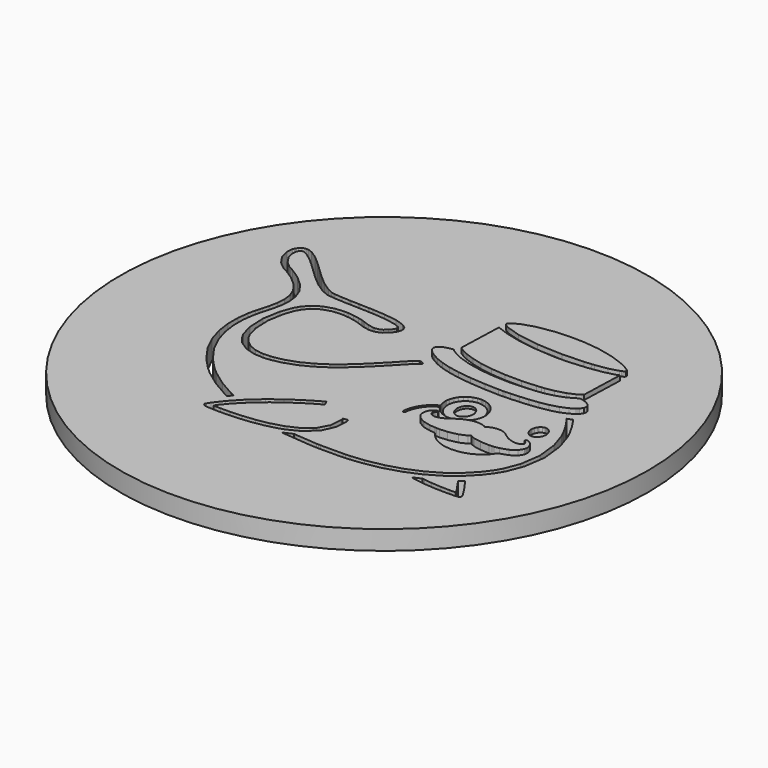
from build123d import *

# Parameters (mm, degrees)
F0_R     = 55
F1_DEPTH = 4
F2_DEPTH = 5
F3_DEPTH = 5
F4_DEPTH = 3.5
F5_DEPTH = 3
F6_DEPTH = 3.5


with BuildPart() as f1:
    # F0 (on Top) → F1 (new body)
    with BuildSketch(Plane.XY):
        Circle(F0_R)
        Polygon((-13.674875, -27.349544), (-13.862768, -27.342803), (-13.887655, -27.341684), (-14.113707, -27.332662), (-14.135068, -27.332662), (-14.364646, -27.322542), (-15.049854, -27.2843), (-15.565212, -27.220155), (-15.818432, -27.108767), (-15.922955, -26.970377), (-15.946597, -26.919733), (-16.06937, -26.658715), (-15.917355, -26.413418), (-15.489723, -25.72147), (-13.995704, -23.777213), (-11.741818, -21.377243), (-9.330732, -19.245093), (-6.936444, -17.413323), (-4.73565, -15.914742), (-2.900479, -14.780541), (-1.609077, -14.043486), (-1.13976, -13.79151), (-1.033785, -13.737589), (-0.547876, -14.684935), (-0.572555, -14.697171), (-0.990026, -14.921149), (-2.133145, -15.572553), (-3.812983, -16.603268), (-5.866533, -17.980528), (-8.131411, -19.668143), (-10.441291, -21.632682), (-12.632961, -23.840196), (-14.110389, -25.621322), (-14.543621, -26.255886), (-14.176753, -26.278408), (-13.074074, -26.30989), (-11.071334, -26.30203), (-8.696126, -26.182761), (-6.109591, -25.909342), (-3.473075, -25.431189), (-0.945023, -24.705437), (1.311974, -23.682665), (2.738592, -22.716198), (3.139264, -22.31901), (3.512976, -21.946584), (4.659207, -19.813314), (4.851662, -17.282877), (4.74942, -16.712354), (5.796726, -16.523424), (5.931943, -17.272715), (5.793616, -19.62202), (4.598442, -22.247005), (2.236922, -24.364513), (-0.357702, -25.651705), (-1.265644, -25.941985), (-1.875363, -26.135519), (-3.745582, -26.58445), (-6.244393, -27.002999), (-8.61172, -27.242656), (-10.174591, -27.333782), (-10.695341, -27.349544), (-11.025294, -27.358565), (-12.491316, -27.370904), align=None, mode=Mode.SUBTRACT)
        Polygon((34.193244, 6.335228), (34.279932, 6.367581), (34.519672, 6.054841), (35.644749, 4.393253), (36.658666, 2.608684), (36.84407, 2.233935), (37.384107, 1.142663), (38.526189, -2.373383), (39.040302, -6.956022), (38.386825, -11.403859), (37.145611, -14.632051), (36.566378, -15.608638), (36.179393, -16.259005), (34.807733, -18.087332), (32.643024, -20.311728), (30.106883, -22.263886), (27.231872, -23.927963), (24.052416, -25.286039), (20.600453, -26.322292), (16.911031, -27.019881), (13.992676, -27.322542), (13.018163, -27.361925), (12.542001, -27.379926), (7.807554, -27.390046), (7.341762, -27.373165), (6.716075, -27.349544), (0.651445, -26.803845), (0.066613, -26.719459), (0.238744, -26.655335), (1.823806, -25.967846), (1.965867, -25.896961), (2.405735, -25.947605), (6.917448, -26.291889), (7.379714, -26.30989), (7.83887, -26.325651), (12.506123, -26.316671), (12.975233, -26.29867), (13.917187, -26.261527), (16.735582, -25.970127), (20.295386, -25.302879), (23.623746, -24.311629), (26.68748, -23.014338), (29.454235, -21.423387), (31.892489, -19.557875), (33.968229, -17.433647), (35.28265, -15.687446), (35.652837, -15.065076), (36.197229, -14.145935), (37.361709, -11.108125), (37.971843, -6.914544), (37.482201, -2.590517), (36.400883, 0.729547), (35.890088, 1.7613), (35.697633, 2.149736), (34.651363, 3.9847), (33.492482, 5.676981), (33.244862, 5.993247), (33.330305, 6.023525), align=None, mode=Mode.SUBTRACT)
        Polygon((32.398721, -10.416073), (32.090544, -10.591523), (31.32881, -11.623275), (30.267609, -12.598825), (28.859033, -13.41448), (27.518067, -13.878198), (27.058911, -13.965923), (26.615517, -14.05033), (25.254018, -14.142617), (23.674349, -13.982721), (22.316376, -13.547415), (21.178856, -12.894767), (20.257434, -12.086993), (19.586536, -11.284611), (18.497545, -11.183406), (16.940273, -10.823382), (15.629585, -10.086534), (14.979218, -9.178385), (14.914098, -8.846565), (14.87345, -8.641667), (14.901655, -7.998143), (15.146787, -7.349021), (15.509092, -6.887584), (15.758787, -6.669205), (15.850245, -6.607196), (15.853356, -6.595997), (16.015532, -6.50848), (16.027768, -6.500392), (16.285343, -6.418266), (16.313548, -6.419511), (16.405006, -6.421792), (16.589166, -6.564682), (16.593936, -6.703217), (16.592692, -6.741169), (16.382193, -7.018031), (16.347352, -7.046235), (16.24511, -7.123798), (16.043737, -7.494192), (16.069246, -7.749279), (16.079823, -7.772921), (16.107612, -7.82933), (16.438603, -8.114073), (17.023643, -8.29056), (17.180013, -8.294085), (17.274581, -8.295122), (17.561398, -8.268162), (18.044196, -8.154721), (18.622599, -7.917055), (19.13215, -7.62775), (19.293083, -7.517834), (19.424774, -7.426376), (19.701429, -7.234128), (20.543214, -6.672731), (21.577247, -6.092046), (22.645915, -5.718749), (23.561737, -5.585813), (23.868049, -5.585813), (24.054697, -5.585813), (24.617132, -5.635172), (25.19678, -5.764789), (25.622961, -5.943557), (25.850257, -6.084165), (25.91911, -6.140367), (25.982985, -6.06633), (26.209452, -5.872838), (26.630241, -5.626254), (27.202838, -5.437324), (27.763198, -5.351673), (27.950884, -5.345037), (28.170507, -5.335912), (28.83311, -5.395432), (29.493639, -5.593694), (30.005471, -5.888392), (30.332936, -6.140367), (30.439947, -6.2283), (30.507348, -6.283257), (31.227397, -6.779535), (31.315122, -6.820183), (31.503015, -6.907701), (32.379434, -7.219404), (33.160455, -7.361464), (33.302308, -7.364575), (33.461996, -7.366856), (34.115889, -7.218574), (34.524235, -6.875141), (34.561357, -6.78078), (34.565712, -6.766055), (34.581474, -6.688492), (34.571519, -6.520923), (34.472388, -6.311462), (34.294657, -6.133731), (34.226012, -6.089972), (34.188889, -6.06633), (33.952468, -5.809792), (33.949357, -5.772462), (33.935669, -5.645541), (34.031482, -5.544129), (34.039156, -5.535211), (34.219168, -5.460966), (34.247373, -5.462003), (34.272259, -5.462003), (34.513036, -5.526293), (34.525479, -5.531685), (34.622122, -5.577933), (34.713165, -5.62501), (34.982146, -5.80751), (35.408535, -6.229336), (35.740354, -6.869749), (35.839485, -7.53567), (35.818125, -7.752804), (35.782039, -8.092712), (35.195962, -9.065981), (33.922189, -9.920832), align=None, mode=Mode.SUBTRACT)
        Polygon((18.191648, -5.707135), (17.983431, -5.700499), (17.77397, -5.692825), (17.149527, -5.584776), (16.379083, -5.313514), (15.686823, -4.903924), (15.090585, -4.374049), (14.605506, -3.74048), (14.554132, -3.637525), (14.429019, -3.696722), (13.6256, -4.213116), (12.795221, -4.965725), (12.186539, -5.763544), (11.76575, -6.552239), (11.497806, -7.272288), (11.349524, -7.872052), (11.284197, -8.292841), (11.270716, -8.444649), (11.269472, -8.47949), (11.267398, -8.515575), (11.184236, -8.664272), (11.029732, -8.736235), (10.993854, -8.734991), (10.956732, -8.73271), (10.808243, -8.649547), (10.736279, -8.495458), (10.737523, -8.459373), (10.73856, -8.421006), (10.753078, -8.254474), (10.82193, -7.793452), (10.982655, -7.138523), (11.272998, -6.349829), (11.729872, -5.487927), (12.392475, -4.614826), (13.298136, -3.792327), (14.174555, -3.228648), (14.316581, -3.161462), (14.246725, -3.021468), (14.032909, -2.232774), (13.9709, -1.602524), (13.978988, -1.394722), (13.985625, -1.18526), (14.093674, -0.560817), (14.364729, 0.209627), (14.774319, 0.901886), (15.304401, 1.498125), (15.937762, 1.983204), (16.657811, 2.340947), (17.446713, 2.554556), (18.076756, 2.616565), (18.28601, 2.608684), (18.494019, 2.601841), (19.118463, 2.493792), (19.889322, 2.223981), (20.581373, 1.814391), (21.177612, 1.284309), (21.662484, 0.650948), (22.020434, -0.069101), (22.234251, -0.858003), (22.29626, -1.488046), (22.289208, -1.6973), (22.281535, -1.905309), (22.173486, -2.529753), (21.90326, -3.300612), (21.49367, -3.992456), (20.964003, -4.588902), (20.330227, -5.073774), (19.610178, -5.431517), (18.821484, -5.645541), align=None, mode=Mode.SUBTRACT)
        Polygon((36.758834, -25.409787), (36.974931, -25.775473), (36.998574, -25.815976), (36.989241, -26.242406), (36.964562, -26.281789), (36.934284, -26.326771), (36.81151, -26.44268), (36.551654, -26.533827), (36.066782, -26.579929), (35.445657, -26.603571), (35.238477, -26.609191), (35.067382, -26.613692), (33.940024, -26.624953), (32.510296, -26.601331), (32.189467, -26.58895), (32.028742, -26.58221), (30.259935, -26.468541), (30.070798, -26.45166), (29.775893, -26.423559), (26.723565, -25.961106), (26.422024, -25.892481), (26.554752, -25.835097), (27.95441, -25.201632), (28.100618, -25.133008), (28.631737, -25.218514), (30.239611, -25.397427), (32.289636, -25.530175), (34.083329, -25.565058), (35.113837, -25.553797), (35.456856, -25.540317), (35.278088, -25.254516), (33.336112, -22.442779), (33.135569, -22.17388), (33.213339, -22.114215), (33.967192, -21.507793), (34.039156, -21.445888), (34.296938, -21.787932), (35.570711, -23.576939), align=None, mode=Mode.SUBTRACT)
        Polygon((32.647379, -2.403869), (32.600095, -2.403869), (32.450568, -2.398269), (32.006967, -2.240655), (31.527694, -1.837909), (31.207281, -1.250587), (31.091351, -0.712832), (31.092596, -0.534064), (31.092596, -0.357163), (31.204792, 0.169394), (31.458012, 0.679982), (31.528939, 0.766877), (31.602146, 0.858957), (32.039941, 1.188703), (32.497853, 1.335119), (32.650904, 1.335119), (32.697981, 1.333874), (32.846678, 1.329312), (33.291109, 1.171697), (33.770382, 0.769158), (34.091002, 0.180593), (34.207969, -0.357163), (34.207969, -0.537175), (34.206725, -0.658704), (34.093284, -1.238352), (33.839027, -1.747695), (33.769345, -1.835627), (33.694893, -1.92667), (33.257098, -2.257661), (32.754183, -2.403869), align=None, mode=Mode.SUBTRACT)
        Polygon((2.864891, 6.614164), (2.959252, 6.57248), (2.704995, 6.358663), (1.963585, 5.690461), (1.125325, 4.866718), (0.273585, 3.974745), (-0.504117, 3.154321), (-0.765011, 2.883265), (-1.200524, 2.433027), (-2.512249, 1.089572), (-4.336221, -0.702463), (-6.255592, -2.430829), (-8.292343, -4.035385), (-10.466178, -5.45433), (-12.795138, -6.625446), (-15.299756, -7.48963), (-17.320331, -7.914981), (-17.999939, -7.985908), (-18.648025, -8.052064), (-20.621627, -7.95874), (-22.870806, -7.312936), (-24.711535, -6.06716), (-25.835553, -4.738429), (-26.110114, -4.241321), (-26.525282, -3.488505), (-27.222851, -0.927685), (-27.382622, 2.744731), (-26.757059, 6.316149), (-25.919939, 8.625822), (-25.514912, 9.322436), (-25.259473, 9.763342), (-24.23108, 10.937155), (-22.537741, 12.079237), (-20.464096, 12.734996), (-18.639107, 12.915008), (-18.033744, 12.89261), (-17.667083, 12.880167), (-16.568759, 12.763201), (-15.376074, 12.549177), (-14.563738, 12.346767), (-14.252242, 12.252198), (-14.234199, 12.246806), (-13.954019, 12.139587), (-13.731285, 12.05435), (-12.59812, 11.659277), (-11.4662, 11.419538), (-11.242429, 11.411864), (-11.032968, 11.405228), (-10.399606, 11.496271), (-9.651353, 11.816684), (-8.985432, 12.383889), (-8.516114, 12.986972), (-8.386912, 13.203069), (-8.327184, 13.305311), (-8.223491, 13.657662), (-8.261857, 13.83643), (-8.270775, 13.852399), (-8.415946, 14.119099), (-9.502863, 14.561249), (-11.741818, 14.983283), (-14.238554, 15.199173), (-15.740661, 15.271136), (-16.240257, 15.289179), (-16.41467, 15.295608), (-18.148429, 15.35098), (-18.319523, 15.355543), (-18.486055, 15.361142), (-20.10517, 15.410708), (-20.260462, 15.4161), (-20.698132, 15.433106), (-22.452215, 15.527674), (-23.760788, 15.651485), (-23.974563, 15.681763), (-24.455017, 15.750616), (-25.841194, 16.333167), (-27.797811, 17.623946), (-29.803973, 19.328256), (-31.317279, 20.745956), (-31.815735, 21.223154), (-32.193781, 21.585253), (-33.336921, 22.66346), (-34.788384, 23.936818), (-36.073294, 24.853885), (-36.837247, 25.212873), (-37.094926, 25.22179), (-37.150049, 25.224072), (-37.44147, 25.138628), (-37.73511, 24.803283), (-37.790254, 24.67968), (-37.907283, 24.423142), (-37.961287, 23.51831), (-37.58436, 22.091693), (-36.616732, 20.643714), (-35.456711, 19.651365), (-35.017879, 19.414944), (-34.262906, 19.008879), (-32.109395, 17.579773), (-30.061611, 15.719923), (-28.748558, 13.847837), (-28.046469, 11.975543), (-27.828194, 10.113412), (-27.969964, 8.273886), (-28.34689, 6.468993), (-28.705816, 5.14918), (-28.830704, 4.710348), (-28.952213, 4.286241), (-29.080502, 3.83621), (-29.378643, 2.460195), (-29.649802, 0.301085), (-29.655442, -2.134887), (-29.288636, -4.790275), (-28.440277, -7.608877), (-27.001216, -10.536358), (-24.862305, -13.514648), (-22.703133, -15.803375), (-21.915559, -16.48962), (-21.367579, -16.967855), (-18.339847, -19.168588), (-14.959848, -21.102724), (-14.234199, -21.449248), (-14.291438, -21.525795), (-14.81364, -22.261647), (-14.85968, -22.32913), (-15.591135, -21.975846), (-19.000376, -20.009067), (-22.059568, -17.776666), (-22.615367, -17.291794), (-23.441225, -16.571745), (-25.706164, -14.168333), (-27.948603, -11.038235), (-29.455148, -7.95874), (-30.342911, -4.990612), (-30.724338, -2.19337), (-30.714197, 0.374085), (-30.427276, 2.650162), (-30.112255, 4.102911), (-29.976084, 4.577828), (-29.853477, 5.005253), (-29.729708, 5.436204), (-29.376403, 6.734657), (-29.015238, 8.443529), (-28.883588, 10.13581), (-29.090602, 11.814818), (-29.747709, 13.485323), (-30.963974, 15.149607), (-32.851987, 16.813684), (-34.831127, 18.106329), (-35.521955, 18.477553), (-36.041771, 18.756696), (-37.417849, 19.930301), (-38.591371, 21.692472), (-39.040302, 23.507112), (-38.923294, 24.759524), (-38.759023, 25.119548), (-38.685877, 25.281311), (-38.376455, 25.726986), (-37.935384, 26.084937), (-37.481952, 26.253543), (-37.162451, 26.290665), (-37.056684, 26.28631), (-36.740501, 26.275111), (-35.803255, 25.911561), (-34.377695, 24.970852), (-32.797984, 23.613916), (-31.506292, 22.400078), (-31.079883, 21.991732), (-30.61743, 21.549375), (-29.213251, 20.231843), (-27.318518, 18.602607), (-25.491249, 17.354965), (-24.254743, 16.796678), (-23.824933, 16.735084), (-23.567254, 16.698998), (-22.061808, 16.568344), (-20.505718, 16.490781), (-20.222199, 16.480619), (-20.06697, 16.47502), (-18.454533, 16.425454), (-18.289245, 16.419855), (-18.117113, 16.415292), (-16.375267, 16.360335), (-16.200854, 16.353284), (-15.364875, 16.323212), (-12.85694, 16.166635), (-10.219594, 15.822579), (-8.357463, 15.245213), (-7.486643, 14.638605), (-7.334628, 14.360706), (-7.296676, 14.288742), (-7.211025, 14.054809), (-7.160423, 13.66658), (-7.231142, 13.199751), (-7.397674, 12.784561), (-7.473163, 12.657226), (-7.639695, 12.378497), (-8.250658, 11.607638), (-9.139521, 10.87639), (-10.147631, 10.457882), (-10.999371, 10.33739), (-11.280795, 10.347552), (-11.548325, 10.357507), (-12.860258, 10.627525), (-14.102508, 11.056402), (-14.334367, 11.145164), (-14.592979, 11.244088), (-14.661625, 11.244088), (-14.866523, 11.326213), (-15.611252, 11.510788), (-16.717456, 11.708843), (-17.733447, 11.816684), (-18.07211, 11.829128), (-18.607584, 11.849659), (-20.221058, 11.702207), (-22.029186, 11.150764), (-23.488488, 10.178739), (-24.373991, 9.168348), (-24.594506, 8.787999), (-24.971432, 8.139913), (-25.743287, 5.982877), (-26.312627, 2.658043), (-26.169737, -0.72963), (-25.552034, -3.047392), (-25.177347, -3.727), (-24.975953, -4.093869), (-24.187218, -5.094305), (-22.927049, -6.094327), (-21.403602, -6.724578), (-20.068006, -6.965354), (-19.620257, -6.981945), (-19.501009, -6.985471), (-18.240716, -6.939431), (-18.109233, -6.925951), (-17.463221, -6.85855), (-15.543851, -6.449997), (-13.151844, -5.615055), (-10.919527, -4.47878), (-8.827817, -3.10152), (-6.861163, -1.543004), (-5.000068, 0.136834), (-3.229188, 1.878266), (-1.954377, 3.186051), (-1.531307, 3.622394), (-1.290323, 3.872088), (-0.574836, 4.628223), (0.198096, 5.446159), (0.960867, 6.211211), (1.650638, 6.849342), (1.886852, 7.055277), (1.971259, 7.015666), align=None, mode=Mode.SUBTRACT)
        Polygon((34.301293, 10.098895), (34.333024, 9.9334), (34.355421, 9.809797), (34.267696, 9.231393), (33.824302, 8.618149), (33.670213, 8.47754), (33.399158, 8.232201), (32.452642, 7.642599), (30.931456, 6.999075), (29.190853, 6.522084), (27.317523, 6.182177), (25.39919, 5.952599), (23.522334, 5.803902), (21.772814, 5.709541), (20.620569, 5.658731), (20.236903, 5.640895), (20.235866, 5.640895), (19.285202, 5.649813), (16.436322, 5.745419), (13.208337, 5.97396), (10.494465, 6.312623), (8.239542, 6.748137), (6.38861, 7.26785), (4.886503, 7.858489), (3.675983, 8.506574), (2.934573, 9.010733), (2.703751, 9.198833), (2.540744, 9.331354), (2.026631, 9.981721), (1.915057, 10.608446), (1.954668, 10.728938), (2.007344, 10.898788), (2.416934, 11.327458), (3.203347, 11.717968), (4.095528, 11.946302), (4.677457, 12.037345), (4.871779, 12.056424), (5.165647, 11.785369), (6.192836, 11.126084), (7.997729, 10.312711), (10.230047, 9.638702), (12.827988, 9.12687), (15.734108, 8.800442), (18.891166, 8.684305), (22.238606, 8.800442), (24.853553, 9.046819), (25.718566, 9.170629), (26.25093, 9.246947), (27.829562, 9.616097), (29.46419, 10.204662), (30.713284, 10.840305), (31.428978, 11.277892), (31.665192, 11.427626), (31.774278, 11.411864), (32.433562, 11.271256), (33.295464, 10.983195), (33.979635, 10.548925), align=None, mode=Mode.SUBTRACT)
        Polygon((18.708043, 20.284726), (19.978291, 20.245323), (20.635294, 20.261084), (22.609, 20.342173), (25.723336, 20.582949), (28.886201, 21.058696), (30.998856, 21.588778), (31.665192, 21.859004), (31.363651, 12.853207), (31.116238, 12.659507), (30.295813, 12.176916), (28.766539, 11.518669), (26.775205, 10.957271), (24.932361, 10.63665), (24.314346, 10.574849), (23.334441, 10.477999), (20.384355, 10.319348), (16.920986, 10.341745), (13.917187, 10.589366), (11.361967, 11.007874), (9.245371, 11.545629), (7.55786, 12.147675), (6.290723, 12.762164), (5.632683, 13.172583), (5.434628, 13.333516), (5.751931, 22.762176), (6.301922, 22.516007), (8.014734, 21.9038), (10.99178, 21.150154), (14.904766, 20.574032), align=None, mode=Mode.SUBTRACT)
        Polygon((26.182284, 22.11409), (25.580446, 22.059133), (24.1053, 21.926405), (19.658499, 21.771072), (14.339013, 22.00065), (9.862141, 22.728579), (7.259637, 23.520592), (6.468454, 23.929145), (6.38861, 23.97083), (6.061145, 24.172203), (5.892332, 24.452383), (5.893576, 24.532227), (5.893576, 24.589466), (6.000381, 24.803283), (6.307729, 25.035142), (6.40769, 25.101298), (6.756515, 25.334402), (7.898598, 25.890407), (10.289567, 26.660022), (13.760817, 27.215613), (17.311704, 27.390026), (18.494019, 27.364102), (18.756364, 27.358503), (19.835401, 27.334861), (23.070022, 26.982924), (26.535465, 26.203148), (29.16493, 25.23216), (30.542397, 24.547989), (30.976459, 24.27797), (31.07559, 24.217206), (31.403054, 23.975185), (31.53122, 23.738971), (31.530183, 23.679243), (31.528939, 23.609561), (31.334409, 23.373139), (30.981021, 23.208888), (30.901384, 23.175292), (30.594036, 23.048163), (28.684621, 22.508126), align=None, mode=Mode.SUBTRACT)
    extrude(amount=F1_DEPTH)

    # F0 (on Top) → F2 (join)
    with BuildSketch(Plane.XY):
        Polygon((31.370495, -10.608529), (32.398721, -10.416073), (33.922189, -9.920832), (35.195962, -9.065981), (35.782039, -8.092712), (35.818125, -7.752804), (35.839485, -7.53567), (35.740354, -6.869749), (35.408535, -6.229336), (34.982146, -5.80751), (34.713165, -5.62501), (34.622122, -5.577933), (34.525479, -5.531685), (34.513036, -5.526293), (34.272259, -5.462003), (34.247373, -5.462003), (34.219168, -5.460966), (34.039156, -5.535211), (34.031482, -5.544129), (33.935669, -5.645541), (33.949357, -5.772462), (33.952468, -5.809792), (34.188889, -6.06633), (34.226012, -6.089972), (34.294657, -6.133731), (34.472388, -6.311462), (34.571519, -6.520923), (34.581474, -6.688492), (34.565712, -6.766055), (34.561357, -6.78078), (34.524235, -6.875141), (34.115889, -7.218574), (33.461996, -7.366856), (33.302308, -7.364575), (33.160455, -7.361464), (32.379434, -7.219404), (31.503015, -6.907701), (31.315122, -6.820183), (31.227397, -6.779535), (30.507348, -6.283257), (30.439947, -6.2283), (30.332936, -6.140367), (30.005471, -5.888392), (29.493639, -5.593694), (28.83311, -5.395432), (28.170507, -5.335912), (27.950884, -5.345037), (27.763198, -5.351673), (27.202838, -5.437324), (26.630241, -5.626254), (26.209452, -5.872838), (25.982985, -6.06633), (25.91911, -6.140367), (25.850257, -6.084165), (25.622961, -5.943557), (25.19678, -5.764789), (24.617132, -5.635172), (24.054697, -5.585813), (23.868049, -5.585813), (23.561737, -5.585813), (22.645915, -5.718749), (21.577247, -6.092046), (20.543214, -6.672731), (19.701429, -7.234128), (19.424774, -7.426376), (19.293083, -7.517834), (19.13215, -7.62775), (18.622599, -7.917055), (18.044196, -8.154721), (17.561398, -8.268162), (17.274581, -8.295122), (17.180013, -8.294085), (17.023643, -8.29056), (16.438603, -8.114073), (16.107612, -7.82933), (16.079823, -7.772921), (16.069246, -7.749279), (16.043737, -7.494192), (16.24511, -7.123798), (16.347352, -7.046235), (16.382193, -7.018031), (16.592692, -6.741169), (16.593936, -6.703217), (16.589166, -6.564682), (16.405006, -6.421792), (16.313548, -6.419511), (16.285343, -6.418266), (16.027768, -6.500392), (16.015532, -6.50848), (15.853356, -6.595997), (15.850245, -6.607196), (15.758787, -6.669205), (15.509092, -6.887584), (15.146787, -7.349021), (14.901655, -7.998143), (14.87345, -8.641667), (14.914098, -8.846565), (14.979218, -9.178385), (15.629585, -10.086534), (16.940273, -10.823382), (18.497545, -11.183406), (19.586536, -11.284611), (19.95133, -11.291455), (20.602734, -11.309498), (22.197128, -11.215966), (24.188669, -10.792896), (25.641211, -10.143773), (26.033795, -9.817553), (26.242012, -9.963761), (27.004783, -10.277746), (28.529287, -10.569125), (30.401581, -10.665767), (31.02478, -10.647725), align=None)
    extrude(amount=F2_DEPTH)

    # F0 (on Top) → F3 (join)
    with BuildSketch(Plane.XY):
        Polygon((20.635294, 20.261084), (19.978291, 20.245323), (18.708043, 20.284726), (14.904766, 20.574032), (10.99178, 21.150154), (8.014734, 21.9038), (6.301922, 22.516007), (5.751931, 22.762176), (5.434628, 13.333516), (5.632683, 13.172583), (6.290723, 12.762164), (7.55786, 12.147675), (9.245371, 11.545629), (11.361967, 11.007874), (13.917187, 10.589366), (16.920986, 10.341745), (20.384355, 10.319348), (23.334441, 10.477999), (24.314346, 10.574849), (24.932361, 10.63665), (26.775205, 10.957271), (28.766539, 11.518669), (30.295813, 12.176916), (31.116238, 12.659507), (31.363651, 12.853207), (31.665192, 21.859004), (30.998856, 21.588778), (28.886201, 21.058696), (25.723336, 20.582949), (22.609, 20.342173), align=None)
        Polygon((34.355421, 9.809797), (34.333024, 9.9334), (34.301293, 10.098895), (33.979635, 10.548925), (33.295464, 10.983195), (32.433562, 11.271256), (31.774278, 11.411864), (31.665192, 11.427626), (31.428978, 11.277892), (30.713284, 10.840305), (29.46419, 10.204662), (27.829562, 9.616097), (26.25093, 9.246947), (25.718566, 9.170629), (24.853553, 9.046819), (22.238606, 8.800442), (18.891166, 8.684305), (15.734108, 8.800442), (12.827988, 9.12687), (10.230047, 9.638702), (7.997729, 10.312711), (6.192836, 11.126084), (5.165647, 11.785369), (4.871779, 12.056424), (4.677457, 12.037345), (4.095528, 11.946302), (3.203347, 11.717968), (2.416934, 11.327458), (2.007344, 10.898788), (1.954668, 10.728938), (1.915057, 10.608446), (2.026631, 9.981721), (2.540744, 9.331354), (2.703751, 9.198833), (2.934573, 9.010733), (3.675983, 8.506574), (4.886503, 7.858489), (6.38861, 7.26785), (8.239542, 6.748137), (10.494465, 6.312623), (13.208337, 5.97396), (16.436322, 5.745419), (19.285202, 5.649813), (20.235866, 5.640895), (20.236903, 5.640895), (20.620569, 5.658731), (21.772814, 5.709541), (23.522334, 5.803902), (25.39919, 5.952599), (27.317523, 6.182177), (29.190853, 6.522084), (30.931456, 6.999075), (32.452642, 7.642599), (33.399158, 8.232201), (33.670213, 8.47754), (33.824302, 8.618149), (34.267696, 9.231393), align=None)
        Polygon((24.1053, 21.926405), (25.580446, 22.059133), (26.182284, 22.11409), (28.684621, 22.508126), (30.594036, 23.048163), (30.901384, 23.175292), (30.981021, 23.208888), (31.334409, 23.373139), (31.528939, 23.609561), (31.530183, 23.679243), (31.53122, 23.738971), (31.403054, 23.975185), (31.07559, 24.217206), (30.976459, 24.27797), (30.542397, 24.547989), (29.16493, 25.23216), (26.535465, 26.203148), (23.070022, 26.982924), (19.835401, 27.334861), (18.756364, 27.358503), (18.494019, 27.364102), (17.311704, 27.390026), (13.760817, 27.215613), (10.289567, 26.660022), (7.898598, 25.890407), (6.756515, 25.334402), (6.40769, 25.101298), (6.307729, 25.035142), (6.000381, 24.803283), (5.893576, 24.589466), (5.893576, 24.532227), (5.892332, 24.452383), (6.061145, 24.172203), (6.38861, 23.97083), (6.468454, 23.929145), (7.259637, 23.520592), (9.862141, 22.728579), (14.339013, 22.00065), (19.658499, 21.771072), align=None)
    extrude(amount=F3_DEPTH)

    # F0 (on Top) → F4 (join)
    with BuildSketch(Plane.XY):
        Polygon((31.32881, -11.623275), (32.090544, -10.591523), (32.398721, -10.416073), (31.370495, -10.608529), (31.02478, -10.647725), (30.401581, -10.665767), (28.529287, -10.569125), (27.004783, -10.277746), (26.242012, -9.963761), (26.033795, -9.817553), (25.641211, -10.143773), (24.188669, -10.792896), (22.197128, -11.215966), (20.602734, -11.309498), (19.95133, -11.291455), (19.586536, -11.284611), (20.257434, -12.086993), (21.178856, -12.894767), (22.316376, -13.547415), (23.674349, -13.982721), (25.254018, -14.142617), (26.615517, -14.05033), (27.058911, -13.965923), (27.518067, -13.878198), (28.859033, -13.41448), (30.267609, -12.598825), align=None)
    extrude(amount=F4_DEPTH)

    # F0 (on Top) → F5 (join)
    with BuildSketch(Plane.XY):
        Polygon((17.941539, -3.573948), (18.101435, -3.579755), (18.109316, -3.579755), (18.192685, -3.579755), (18.201603, -3.579755), (18.316288, -3.575193), (18.856325, -3.397462), (19.319006, -3.02375), (19.396569, -2.922752), (19.469569, -2.824865), (19.727352, -2.258698), (19.829594, -1.623055), (19.825446, -1.490327), (19.818395, -1.292065), (19.666587, -0.704744), (19.284165, -0.070346), (18.732929, 0.349406), (18.231882, 0.493333), (18.067838, 0.486489), (17.951909, 0.483379), (17.411872, 0.306477), (16.949398, -0.06682), (16.873079, -0.16927), (16.798627, -0.267364), (16.542089, -0.83208), (16.439847, -1.467722), (16.443995, -1.601694), (16.449802, -1.791869), (16.591655, -2.359903), (16.950435, -2.982272), (17.470355, -3.408661), align=None)
        Polygon((32.450568, -2.398269), (32.600095, -2.403869), (32.647379, -2.403869), (32.754183, -2.403869), (33.257098, -2.257661), (33.694893, -1.92667), (33.769345, -1.835627), (33.839027, -1.747695), (34.093284, -1.238352), (34.206725, -0.658704), (34.207969, -0.537175), (34.207969, -0.357163), (34.091002, 0.180593), (33.770382, 0.769158), (33.291109, 1.171697), (32.846678, 1.329312), (32.697981, 1.333874), (32.650904, 1.335119), (32.497853, 1.335119), (32.039941, 1.188703), (31.602146, 0.858957), (31.528939, 0.766877), (31.458012, 0.679982), (31.204792, 0.169394), (31.092596, -0.357163), (31.092596, -0.534064), (31.091351, -0.712832), (31.207281, -1.250587), (31.527694, -1.837909), (32.006967, -2.240655), align=None)
    extrude(amount=F5_DEPTH)

    # F0 (on Top) → F6 (join)
    with BuildSketch(Plane.XY):
        Polygon((18.447979, 2.070722), (18.266723, 2.076528), (18.084844, 2.083165), (17.53423, 2.030488), (16.847156, 1.843425), (16.219187, 1.531722), (15.666707, 1.107822), (15.20444, 0.587902), (14.847527, -0.015181), (14.611312, -0.686909), (14.517988, -1.2313), (14.512181, -1.413594), (14.505545, -1.59485), (14.558221, -2.145049), (14.745285, -2.832538), (15.056988, -3.460507), (15.480888, -4.012987), (16.000808, -4.475254), (16.603891, -4.831753), (17.275618, -5.068382), (17.820425, -5.161706), (18.002304, -5.168343), (18.18356, -5.173942), (18.733759, -5.121058), (19.421248, -4.93441), (20.047973, -4.622706), (20.600453, -4.199636), (21.062719, -3.678886), (21.419633, -3.075596), (21.655847, -2.403869), (21.750416, -1.859269), (21.75726, -1.678013), (21.762652, -1.495719), (21.709768, -0.945521), (21.523119, -0.258446), (21.211416, 0.369523), (20.788346, 0.922003), (20.267596, 1.38344), (19.664306, 1.740146), (18.992578, 1.976153), align=None)
        Polygon((18.109316, -3.579755), (18.101435, -3.579755), (17.941539, -3.573948), (17.470355, -3.408661), (16.950435, -2.982272), (16.591655, -2.359903), (16.449802, -1.791869), (16.443995, -1.601694), (16.439847, -1.467722), (16.542089, -0.83208), (16.798627, -0.267364), (16.873079, -0.16927), (16.949398, -0.06682), (17.411872, 0.306477), (17.951909, 0.483379), (18.067838, 0.486489), (18.231882, 0.493333), (18.732929, 0.349406), (19.284165, -0.070346), (19.666587, -0.704744), (19.818395, -1.292065), (19.825446, -1.490327), (19.829594, -1.623055), (19.727352, -2.258698), (19.469569, -2.824865), (19.396569, -2.922752), (19.319006, -3.02375), (18.856325, -3.397462), (18.316288, -3.575193), (18.201603, -3.579755), (18.192685, -3.579755), align=None, mode=Mode.SUBTRACT)
    extrude(amount=F6_DEPTH)


solid = f1.part
